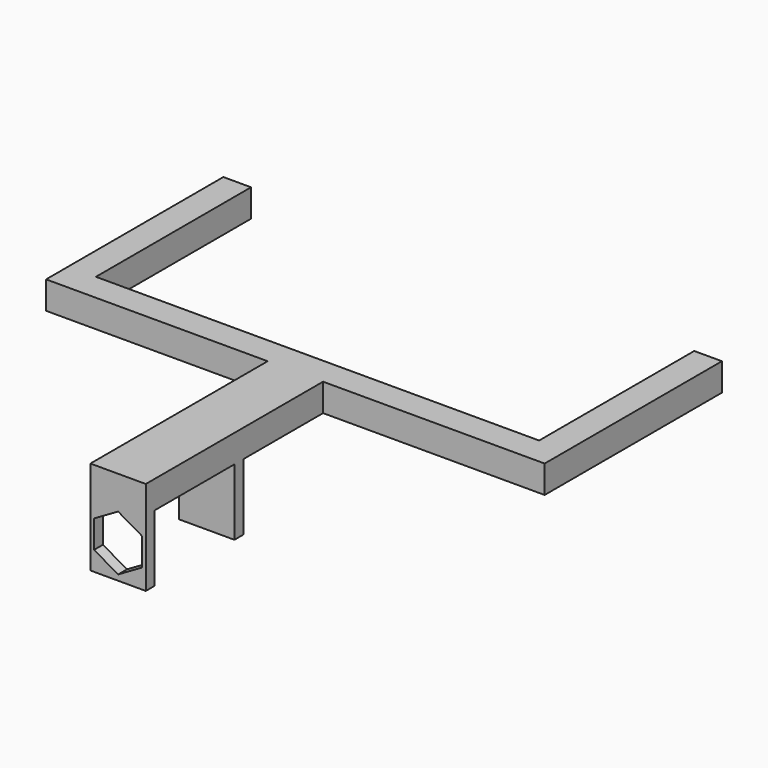
from build123d import *

# Parameters (mm, degrees)
F1_DEPTH = 6.35
F2_W     = 6.35
F2_H     = 2.54
F3_DEPTH = 15.24
F5_DEPTH = 2.54


with BuildPart() as f1:
    # F0 (on Top) → F1 (new body)
    with BuildSketch(Plane.XY):
        Polygon((-12.7, -50.8), (-6.35, -50.8), (0, -50.8), (0, 0), (50.8, 0), (50.8, 50.8), (44.45, 50.8), (44.45, 6.35), (-57.15, 6.35), (-57.15, 50.8), (-63.5, 50.8), (-63.5, 0), (-12.7, 0), align=None)
    extrude(amount=F1_DEPTH)

    # F2 (on face) → F3 (join)
    with BuildSketch(Plane(origin=(0, 0, 0), x_dir=(1, 0, 0), z_dir=(0, 0, -1))):
        Polygon((0, 25.4), (-6.35, 25.4), (-12.7, 25.4), (-12.7, 22.86), (0, 22.86), align=None)
        with Locations((-9.525, 49.53)):
            Rectangle(F2_W, F2_H)
        with Locations((-3.175, 49.53)):
            Rectangle(F2_W, F2_H)
    extrude(amount=F3_DEPTH)

    # F4 (on face) → F5 (cut, through all)
    with BuildSketch(Plane.XZ.offset(50.8)):
        Polygon((-11.8491, -10.794907), (-6.35, -13.969814), (-0.8509, -10.794907), (-0.8509, -4.445093), (-6.35, -1.270186), (-11.8491, -4.445093), align=None)
    extrude(amount=-F5_DEPTH, mode=Mode.SUBTRACT)


solid = f1.part
